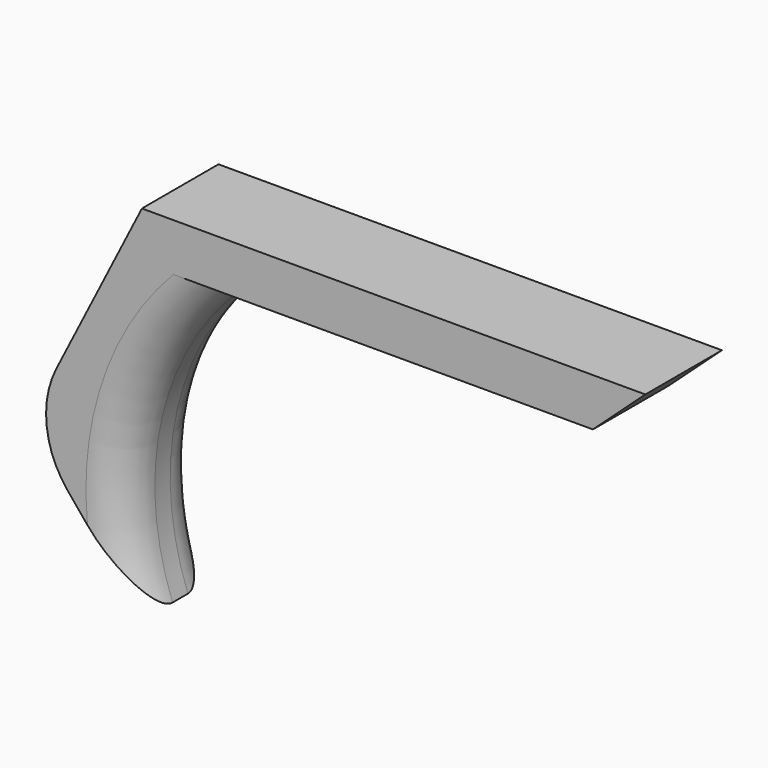
from build123d import *

# Parameters (mm, degrees)
F1_DEPTH = 12.7
F2_R     = 5.08


with BuildPart() as f1:
    # F0 (on Front) → F1 (new body)
    with BuildSketch(Plane.XZ):
        with BuildLine():
            Line((66.802, 0), (0, 0))
            Line((0, 0), (-11.343573, -22.384649))
            ThreePointArc((-11.343573, -22.384649), (-12.637739, -29.525329), (-9.810389, -36.20891))
            Line((-9.810389, -36.20891), (0, -48.09675))
            ThreePointArc((0, -48.09675), (-0.98103, -25.294337), (11.747858, -6.35))
            Line((11.747858, -6.35), (59.844611, -6.35))
            Line((59.844611, -6.35), (66.802, 0))
        make_face()
    extrude(amount=F1_DEPTH)

    # F2
    f2_edges = [f1.edges().sort_by_distance(p)[0] for p in [
        (-0.98103, -12.7, -25.294337),
        (-0.98103, 0, -25.294337),
    ]]
    fillet(f2_edges, radius=F2_R)


solid = f1.part
